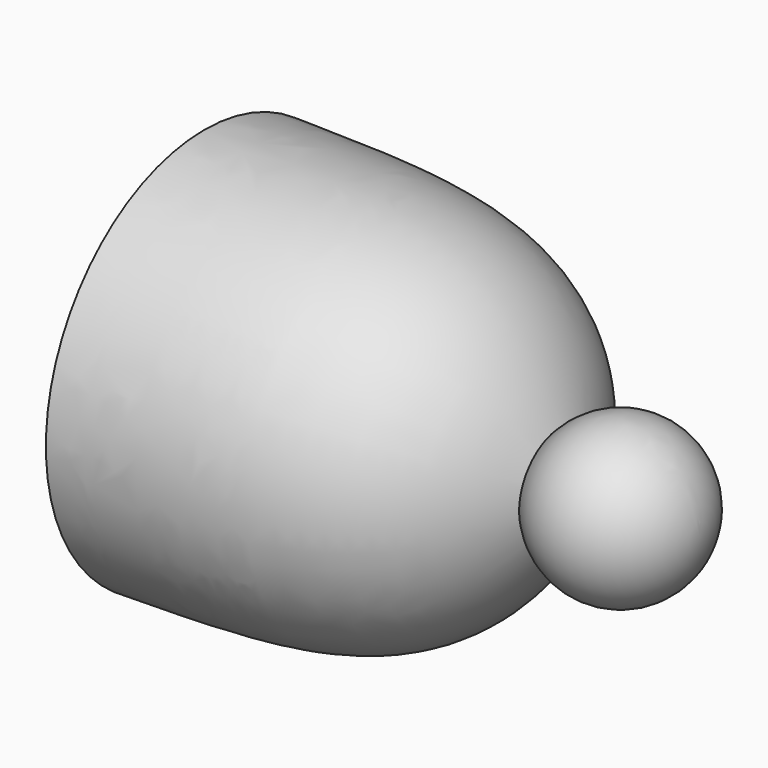
from build123d import *


with BuildPart() as f1:
    # F0 (on Front) → F1 (revolve)
    with BuildSketch(Plane.XZ):
        with BuildLine():
            add(Edge.make_bspline(
                [(-15.8680682766, 4.727571737), (-14.8185906787, 4.6430852044), (-12.6633877724, 4.4695840064), (-8.8896265565, 4.1525285838), (-6.4411770736, 1.4836957434), (-5.08, 0)],
                knots=[0, 0, 0, 0, 0.2965060258, 0.608903563, 1, 1, 1, 1], degree=3))
            ThreePointArc((-5.08, 0), (-4.9105741148, 0.9121284813), (-4.4248989241, 1.7025733599))
            add(Edge.make_bspline(
                [(-15.8680682766, 6.35), (-10.1919021766, 6.277549286), (-6.6073332176, 6.3870927435), (-4.4248989241, 1.7025733599)],
                knots=[0, 0, 0, 0, 12.3508987205, 12.3508987205, 12.3508987205, 12.3508987205], degree=3))
            Line((-15.8680682766, 6.35), (-15.8680682766, 4.727571737))
        make_face()
        with BuildLine():
            Line((-5.08, 0), (0, 0))
            ThreePointArc((0, 0), (-1.6278715187, 2.3705741148), (-4.4248989241, 1.7025733599))
            ThreePointArc((-4.4248989241, 1.7025733599), (-4.9105741148, 0.9121284813), (-5.08, 0))
        make_face()
    revolve(axis=Axis((-7.9340341383, 0, 0), (-1, 0, 0)))


solid = f1.part
